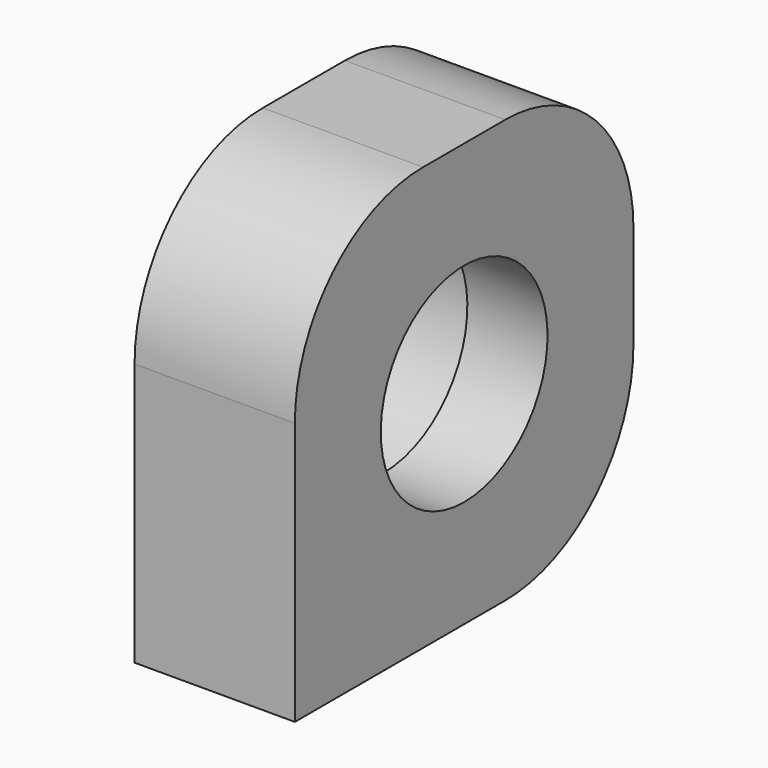
from build123d import *

# Parameters (mm, degrees)
CYLINDER005_R     = 6.5
CYLINDER005_DEPTH = 10
CYLINDER004_R     = 8.2
CYLINDER004_DEPTH = 5
BOX_W             = 10
BOX_H             = 26.4
BOX_DEPTH         = 26.4
FILLET_R          = 10


with BuildPart() as bring_holder_hole:
    # Cylinder005 → Cylinder005 (new body)
    with BuildSketch(Plane(origin=(0, 0, 0), x_dir=(0, 0, -1), z_dir=(1, 0, 0))):
        Circle(CYLINDER005_R)
    extrude(amount=CYLINDER005_DEPTH)


with BuildPart() as bring_holder_extract:
    # Cylinder004 → Cylinder004 (new body)
    with BuildSketch(Plane(origin=(0, 0, 0), x_dir=(0, 0, -1), z_dir=(1, 0, 0))):
        Circle(CYLINDER004_R)
    extrude(amount=CYLINDER004_DEPTH)

    # Fusion001: union bring holder hole
    add(bring_holder_hole.part)


with BuildPart() as bring_holder_cut_clone:
    # Box → Box (new body)
    with BuildSketch(Plane(origin=(0, -13.2, -13.2), x_dir=(1, 0, 0), z_dir=(0, 0, 1))):
        with Locations((5, 13.2)):
            Rectangle(BOX_W, BOX_H)
    extrude(amount=BOX_DEPTH)

    # Fillet
    fillet_edges = [bring_holder_cut_clone.edges().sort_by_distance(p)[0] for p in [
        (5, -13.2, 13.2),
        (5, 13.2, -13.2),
        (5, 13.2, 13.2),
    ]]
    fillet(fillet_edges, radius=FILLET_R)

    # Cut023015003: cut bring holder extract
    add(bring_holder_extract.part, mode=Mode.SUBTRACT)


with BuildPart() as bring_holder_cut_clone_1:
    # Cut023015003 placement: moved
    add(bring_holder_cut_clone.part.moved(Location((-5, 26, 13.2))))


with BuildPart() as bring_holder_cut_clone_2:
    # Clone002 placement: moved
    add(bring_holder_cut_clone_1.part.moved(Location((0, 0, -6.2))))


with BuildPart() as bring_holder_cut_clone_3:
    # Body003 placement: moved
    add(bring_holder_cut_clone_2.part.moved(Location((0, 8, 9))))


solid = bring_holder_cut_clone_3.part
